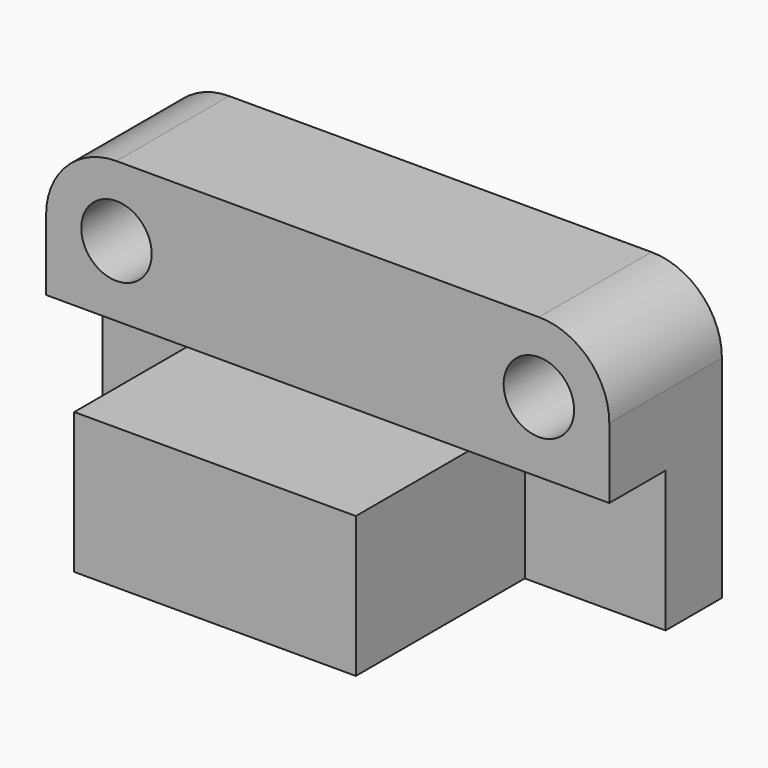
from build123d import *

# Parameters (mm, degrees)
F0_W      = 101.6
F0_H      = 76.2
F1_DEPTH  = 50.8
F2_W      = 50.8
F2_H      = 50.8
F2_W_2    = 101.6
F3_DEPTH  = 25.4
F4_W      = 203.2
F4_H      = 50.8
F5_DEPTH  = 50.8
F6_R      = 25.4
F7_R      = 12.7
F8_DEPTH  = 53.086
F9_R      = 12.7
F10_DEPTH = 60.96


with BuildPart() as f1:
    # F0 (on Top) → F1 (new body)
    with BuildSketch(Plane.XY):
        with Locations((-12.972143, -1.360715)):
            Rectangle(F0_W, F0_H)
    extrude(amount=F1_DEPTH)

    # F2 (on face) → F3 (join)
    with BuildSketch(Plane(origin=(0, 36.739285, 0), x_dir=(-1, 0, 0), z_dir=(0, 1, 0))):
        with Locations((-63.227857, 25.4)):
            Rectangle(F2_W, F2_H)
        with Locations((12.972143, 25.4)):
            Rectangle(F2_W_2, F2_H)
        with Locations((89.172143, 25.4)):
            Rectangle(F2_W, F2_H)
    extrude(amount=F3_DEPTH)

    # F4 (on face) → F5 (join)
    with BuildSketch(Plane.XY.offset(50.8)):
        with Locations((-12.972143, 36.739285)):
            Rectangle(F4_W, F4_H)
    extrude(amount=F5_DEPTH)

    # F6
    f6_edges = [f1.edges().sort_by_distance(p)[0] for p in [
        (88.627857, 36.739285, 101.6),
        (-114.572143, 36.739285, 101.6),
    ]]
    fillet(f6_edges, radius=F6_R)

    # F7 (on face) → F8 (cut)
    with BuildSketch(Plane.XZ.offset(-11.339285)):
        with Locations((63.227857, 76.2)):
            Circle(F7_R)
    extrude(amount=-F8_DEPTH, mode=Mode.SUBTRACT)

    # F9 (on face) → F10 (cut)
    with BuildSketch(Plane.XZ.offset(-11.339285)):
        with Locations((-89.172143, 76.2)):
            Circle(F9_R)
    extrude(amount=-F10_DEPTH, mode=Mode.SUBTRACT)


solid = f1.part
